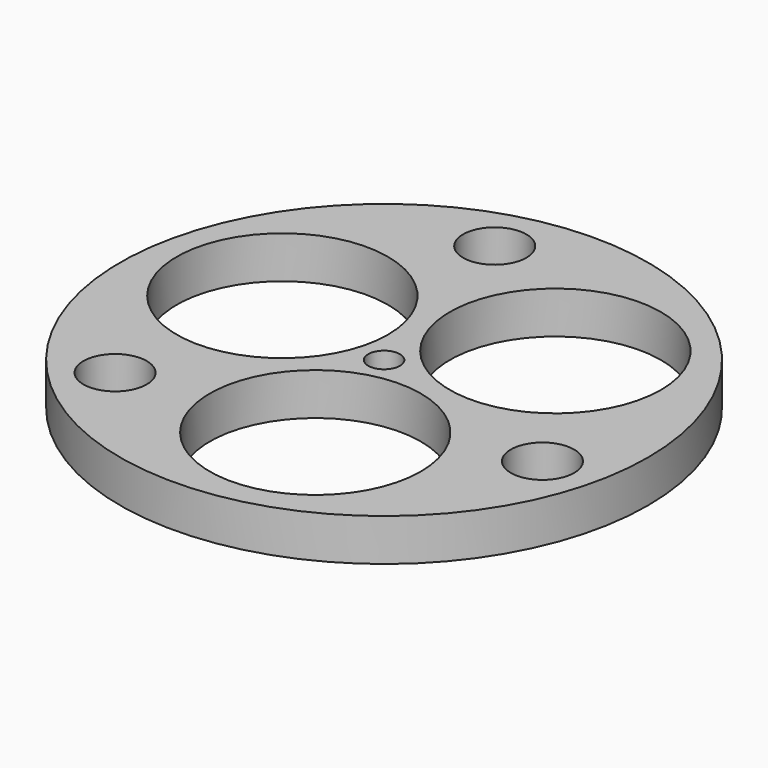
from build123d import *

# Parameters (mm, degrees)
F0_R     = 25
F0_R_2   = 3
F0_R_3   = 10
F0_R_4   = 1.5
F1_DEPTH = 4


with BuildPart() as f1:
    # F0 (on Top) → F1 (new body)
    with BuildSketch(Plane.XY):
        Circle(F0_R)
        with Locations((-14.262258, -14.020984)):
            Circle(F0_R_2, mode=Mode.SUBTRACT)
        with Locations((3.28283, -12.251688)):
            Circle(F0_R_3, mode=Mode.SUBTRACT)
        with Locations((19.273657, -5.340986)):
            Circle(F0_R_2, mode=Mode.SUBTRACT)
        with Locations((-12.305627, 3.33677)):
            Circle(F0_R_3, mode=Mode.SUBTRACT)
        with Locations((-5.011399, 19.36197)):
            Circle(F0_R_2, mode=Mode.SUBTRACT)
        Circle(F0_R_4, mode=Mode.SUBTRACT)
        with Locations((8.988601, 9.042541)):
            Circle(F0_R_3, mode=Mode.SUBTRACT)
    extrude(amount=F1_DEPTH)


solid = f1.part
